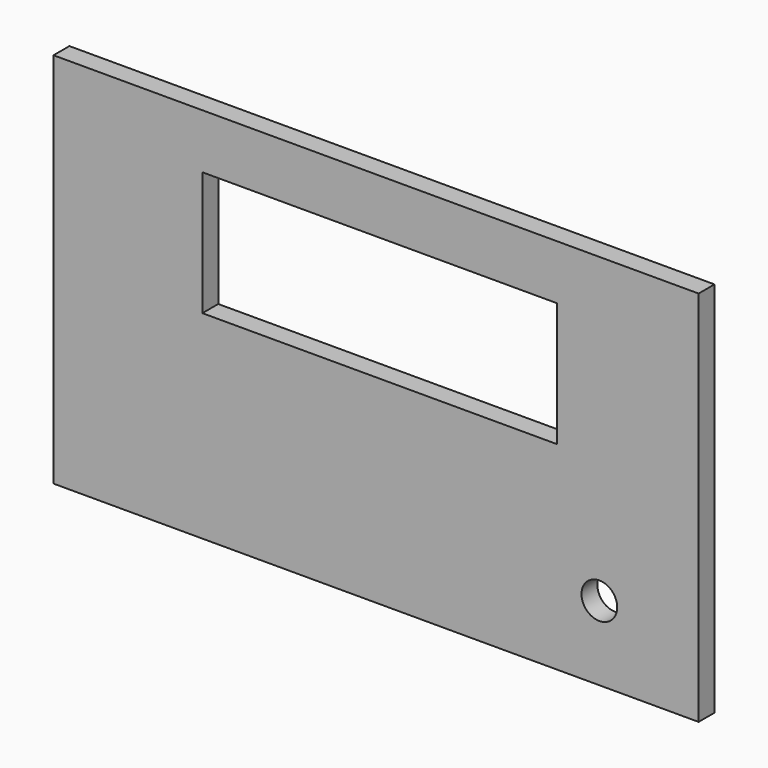
from build123d import *

# Parameters (mm, degrees)
SKETCH005_W     = 130
SKETCH005_H     = 76
PAD003_DEPTH    = 4
SKETCH006_W     = 71.5
SKETCH006_H     = 25
POCKET001_DEPTH = 4.001
SKETCH007_R     = 3.6
HOLE001_DEPTH   = 4.001


with BuildPart() as part:
    # Sketch005 → Pad003 (new body)
    with BuildSketch(Plane.XZ.offset(96)):
        with Locations((65, 38)):
            Rectangle(SKETCH005_W, SKETCH005_H)
    extrude(amount=PAD003_DEPTH)

    # Sketch006 (on Face6 of Pad003) → Pocket001 (cut, through all)
    with BuildSketch(Plane.XZ.offset(100)):
        with Locations((65.75, 52.5)):
            Rectangle(SKETCH006_W, SKETCH006_H)
    extrude(amount=-POCKET001_DEPTH, mode=Mode.SUBTRACT)

    # Sketch007 (on Face5 of Pocket001) → Hole001 (cut, through all)
    with BuildSketch(Plane.XZ.offset(100)):
        with Locations((110, 15)):
            Circle(SKETCH007_R)
    extrude(amount=-HOLE001_DEPTH, mode=Mode.SUBTRACT)


solid = part.part
